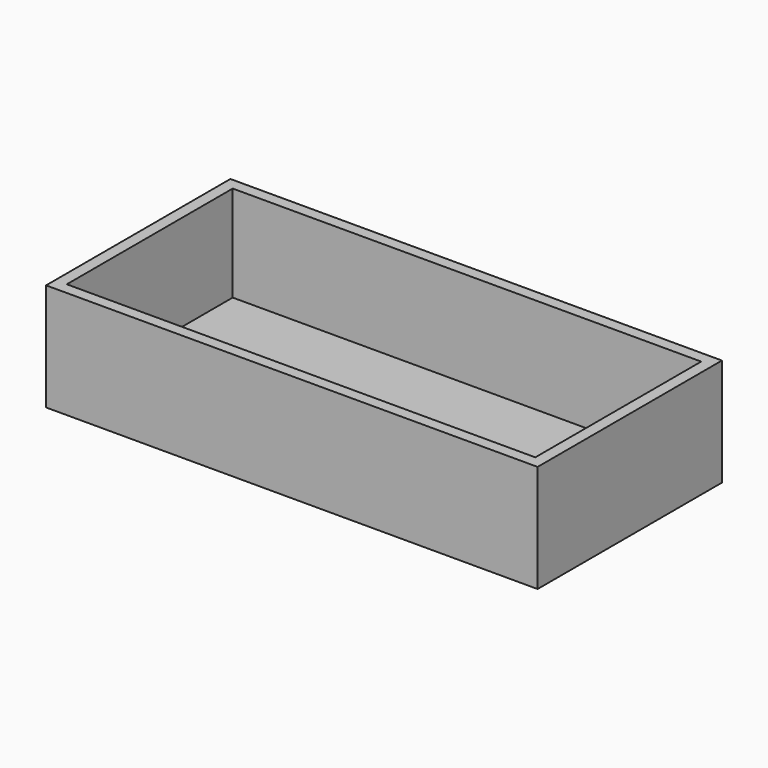
from build123d import *

# Parameters (mm, degrees)
F0_W     = 812.8
F0_H     = 19.05
F1_DEPTH = 381
F2_W     = 19.05
F2_H     = 361.95
F3_DEPTH = 158.75
F5_W     = 774.7
F5_H     = 19.05
F6_DEPTH = 158.75


with BuildPart() as f1:
    # F0 (on Front) → F1 (new body)
    with BuildSketch(Plane.XZ):
        Rectangle(F0_W, F0_H)
    extrude(amount=F1_DEPTH)

    # F2 (on face) → F3 (join)
    with BuildSketch(Plane.XY.offset(9.525)):
        with Locations((-396.875, -180.975)):
            Rectangle(F2_W, F2_H)
    extrude(amount=F3_DEPTH)

    # F4: F1 across plane


with BuildPart() as f1_1:
    add(f1.part)
    add(f1.part.mirror(Plane.YZ))

    # F5 (on face) → F6 (join, through all)
    with BuildSketch(Plane.XY.offset(9.525)):
        with Locations((0, -9.525)):
            Rectangle(F5_W, F5_H)
        Polygon((387.35, -361.95), (-387.35, -361.95), (-406.4, -361.95), (-406.4, -381), (406.4, -381), (406.4, -361.95), align=None)
    extrude(amount=F6_DEPTH)


solid = f1_1.part
